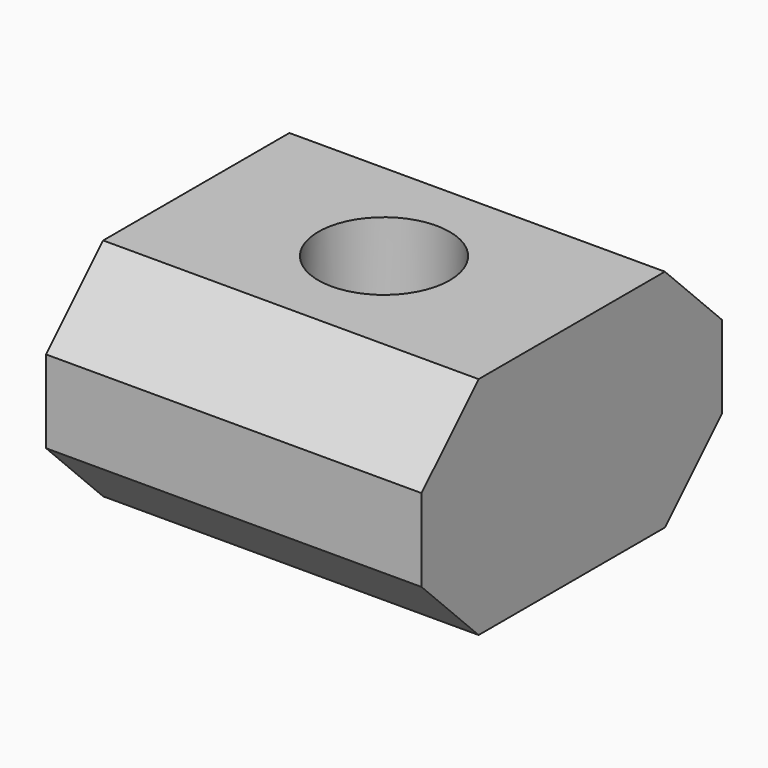
from build123d import *

# Parameters (mm, degrees)
F0_W     = 10
F0_H     = 10
F0_R     = 1.75
F1_DEPTH = 6
F2_DEPTH = 4
F3_SIZE  = 1.9


with BuildPart() as f1:
    # F0 (on Top) → F1 (new body)
    with BuildSketch(Plane.XY):
        Rectangle(F0_W, F0_H)
        Polygon((-3.406367, 0), (-1.703183, 2.95), (1.703183, 2.95), (3.406367, 0), (1.703183, -2.95), (-1.703183, -2.95), align=None, mode=Mode.SUBTRACT)
        Polygon((1.703183, 2.95), (-1.703183, 2.95), (-3.406367, 0), (-1.703183, -2.95), (1.703183, -2.95), (3.406367, 0), align=None)
        Circle(F0_R, mode=Mode.SUBTRACT)
    extrude(amount=F1_DEPTH)

    # F0 (on Top) → F2 (cut)
    with BuildSketch(Plane.XY):
        Polygon((1.703183, 2.95), (-1.703183, 2.95), (-3.406367, 0), (-1.703183, -2.95), (1.703183, -2.95), (3.406367, 0), align=None)
        Circle(F0_R, mode=Mode.SUBTRACT)
    extrude(amount=F2_DEPTH, mode=Mode.SUBTRACT)

    # F3
    f3_edges = [f1.edges().sort_by_distance(p)[0] for p in [
        (0, 5, 0),
        (0, -5, 0),
        (0, 5, 6),
        (0, -5, 6),
    ]]
    chamfer(f3_edges, length=F3_SIZE)


solid = f1.part
